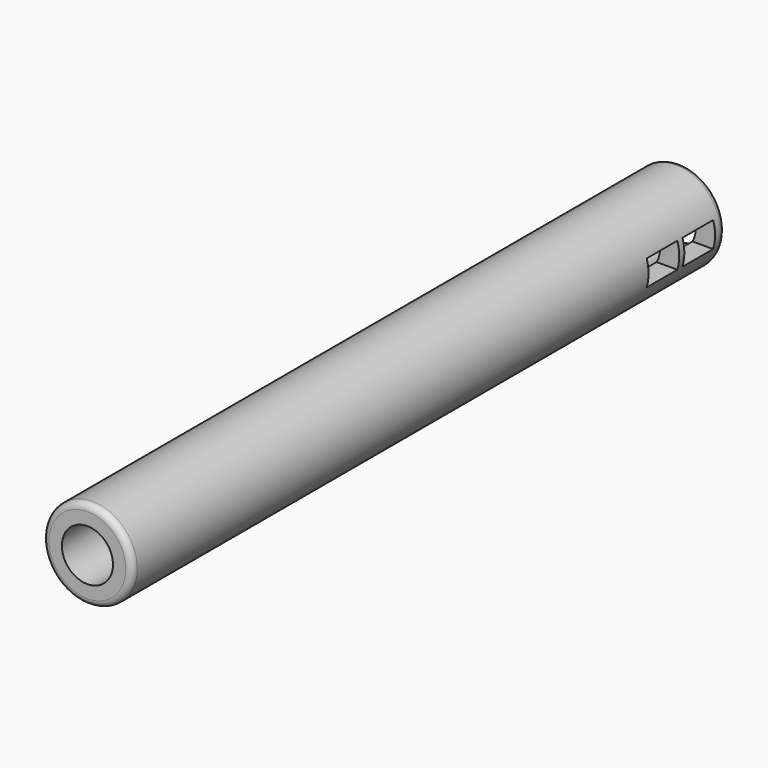
from build123d import *

# Parameters (mm, degrees)
F0_R     = 3.5
F0_R_2   = 2
F1_DEPTH = 58
F2_R     = 0.5
F3_W     = 3
F3_H     = 2
F4_DEPTH = 12.5


with BuildPart() as f1:
    # F0 (on Front) → F1 (new body)
    with BuildSketch(Plane.XZ):
        Circle(F0_R)
        Circle(F0_R_2, mode=Mode.SUBTRACT)
    extrude(amount=F1_DEPTH)

    # F2
    f2_edges = [f1.edges().sort_by_distance(p)[0] for p in [
        (-3.5, -58, 0),
        (-3.5, 0, 0),
    ]]
    fillet(f2_edges, radius=F2_R)

    # F3 (on Right) → F4 (cut, symmetric)
    with BuildSketch(Plane.YZ):
        with Locations((-6, 0)):
            Rectangle(F3_W, F3_H)
        with Locations((-2.5, 0)):
            Rectangle(F3_W, F3_H)
    extrude(amount=F4_DEPTH, both=True, mode=Mode.SUBTRACT)


solid = f1.part
